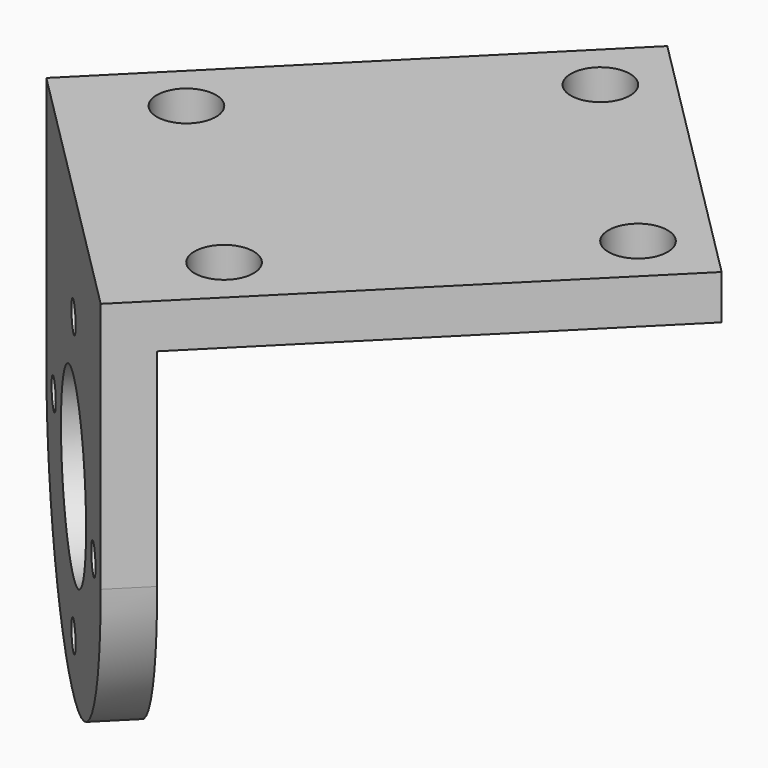
from build123d import *

# Parameters (mm, degrees)
SKETCH096_R             = 6
PAD068_DEPTH            = 3
SKETCH097_W             = 26
SKETCH097_H             = 3
PAD069_DEPTH            = 30
SKETCH098_R             = 2
POCKET036_DEPTH         = 30.001
SKETCH099_R             = 1
POCKET037_DEPTH         = 136.248276
POLARPATTERN015_COUNT   = 4
BODY041_PLACEMENT_ANGLE = 135


with BuildPart() as part:
    # Sketch096 → Pad068 (new body)
    with BuildSketch(Plane.XZ):
        with BuildLine():
            Line((-13, 17), (13, 17))
            Line((13, 17), (13, 0))
            ThreePointArc((-13, 0), (0, -13), (13, 0))
            Line((-13, 17), (-13, 0))
        make_face()
        Circle(SKETCH096_R, mode=Mode.SUBTRACT)
    extrude(amount=PAD068_DEPTH)

    # Sketch097 (on Face7 of Pad068) → Pad069 (join)
    with BuildSketch(Plane.XZ.offset(3)):
        with Locations((0, 15.5)):
            Rectangle(SKETCH097_W, SKETCH097_H)
    extrude(amount=PAD069_DEPTH)

    # Sketch098 (on Face5 of Pad069) → Pocket036 (cut, through all)
    with BuildSketch(Plane(origin=(0, 0, 17), x_dir=(-1, 0, 0), z_dir=(0, 0, 1))):
        with Locations((-9, 7)):
            Circle(SKETCH098_R)
        with Locations((9, 7)):
            Circle(SKETCH098_R)
        with Locations((-9, 29)):
            Circle(SKETCH098_R)
        with Locations((9, 29)):
            Circle(SKETCH098_R)
    extrude(amount=-POCKET036_DEPTH, mode=Mode.SUBTRACT)

    # Sketch099 (on Face4 of Pocket036) → Pocket037 (cut, through all)
    with BuildSketch(Plane(origin=(0, 0, 0), x_dir=(1, 0, 0), z_dir=(0, 1, 0))):
        with Locations((0, 9.5)):
            Circle(SKETCH099_R)
    pocket037 = extrude(amount=-POCKET037_DEPTH, mode=Mode.SUBTRACT)

    # PolarPattern015: Pocket037 ×4 about axis
    polarpattern015_axis = Axis((0, 0, 0), (0, 1, 0))
    for i in range(1, POLARPATTERN015_COUNT):
        add(pocket037.rotate(polarpattern015_axis, i * 360 / POLARPATTERN015_COUNT), mode=Mode.SUBTRACT)


with BuildPart() as part_1:
    # Body041 placement: moved
    add(part.part.moved(Location((-53.720055, -53.720061, -7))).rotate(Axis((-53.720055, -53.720061, -7), (0, 0, 1)), BODY041_PLACEMENT_ANGLE))


solid = part_1.part
